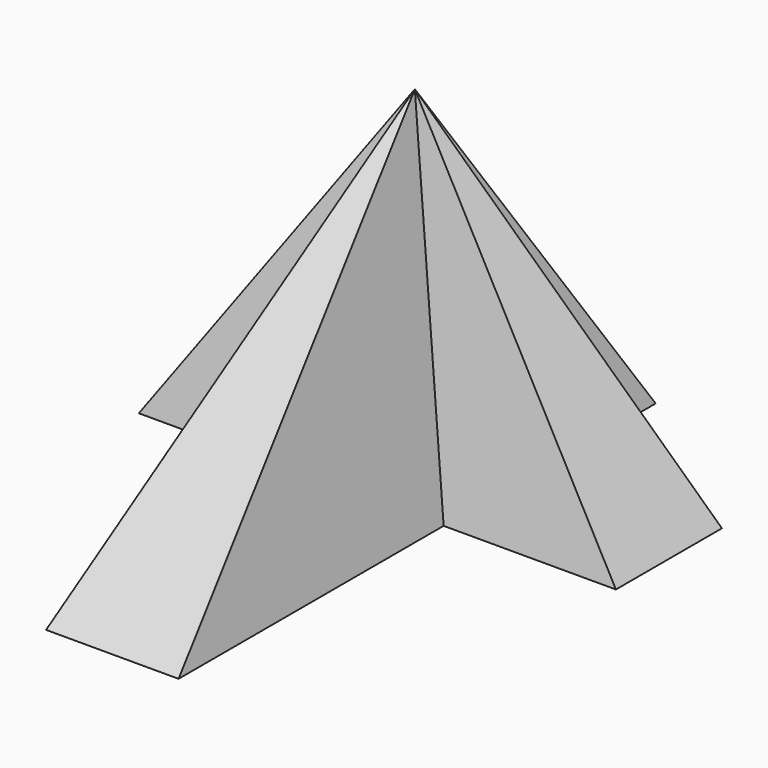
from build123d import *


with BuildPart() as f3:
    # F0 (on Top) → F3 section 0
    with BuildSketch(Plane.XY, mode=Mode.PRIVATE) as f3_s0:
        Polygon((10.945245, 64.67403), (-14.454755, 64.67403), (-14.454755, 39.27403), (-47.474755, 39.27403), (-47.474755, 13.87403), (-14.454755, 13.87403), (-14.454755, -49.62597), (10.945245, -49.62597), (10.945245, 13.87403), (43.965245, 13.87403), (43.965245, 39.27403), (10.945245, 39.27403), align=None)
    loft([Vertex(-5.864689, 27.987808, 62.484), f3_s0.sketch])


solid = f3.part
